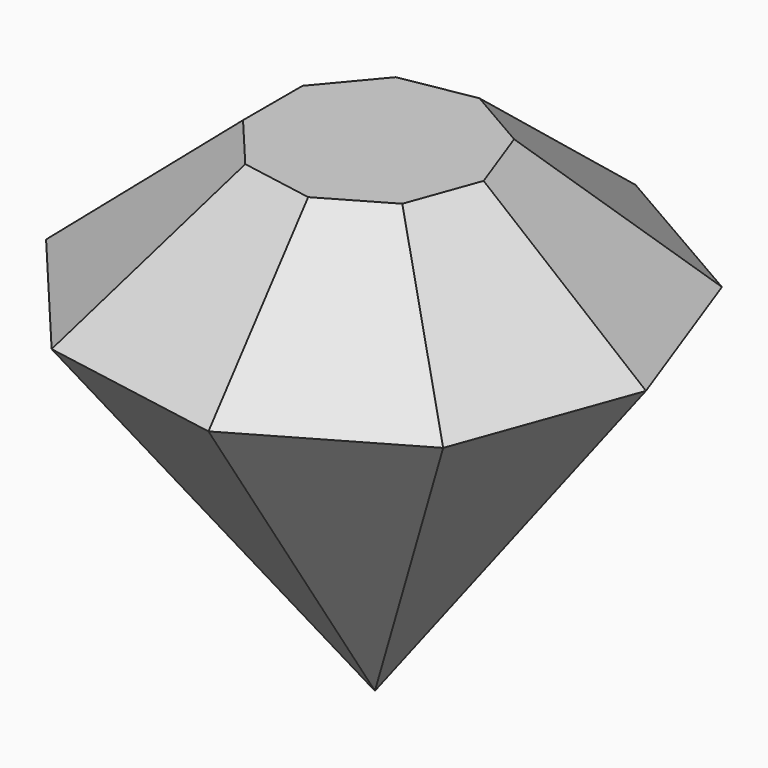
from build123d import *


with BuildPart() as f3:
    # F0 (on Top) → F3 section 0
    with BuildSketch(Plane.XY, mode=Mode.PRIVATE) as f3_s0:
        Polygon((-36.733232, 13.369803), (-36.733232, -13.369803), (-19.545345, -33.85353), (6.788027, -38.496814), (29.945205, -25.127011), (39.090689, 0), (29.945205, 25.127011), (6.788027, 38.496814), (-19.545345, 33.85353), align=None)
    loft([f3_s0.sketch, Vertex(0, 0, -50.8)])

    # F5 (on offset) → F6 section 0
    with BuildSketch(Plane.XY.offset(19.05)):
        Polygon((2.722577, 15.440499), (-7.839347, 13.578147), (-14.733152, 5.362429), (-14.733152, -5.362429), (-7.839347, -13.578147), (2.722577, -15.440499), (12.010576, -10.07807), (15.678693, 0), (12.010576, 10.07807), align=None)
    # F0 (on Top) → F6 section 1
    with BuildSketch(Plane.XY):
        Polygon((-36.733232, 13.369803), (-36.733232, -13.369803), (-19.545345, -33.85353), (6.788027, -38.496814), (29.945205, -25.127011), (39.090689, 0), (29.945205, 25.127011), (6.788027, 38.496814), (-19.545345, 33.85353), align=None)
    loft()


solid = f3.part
